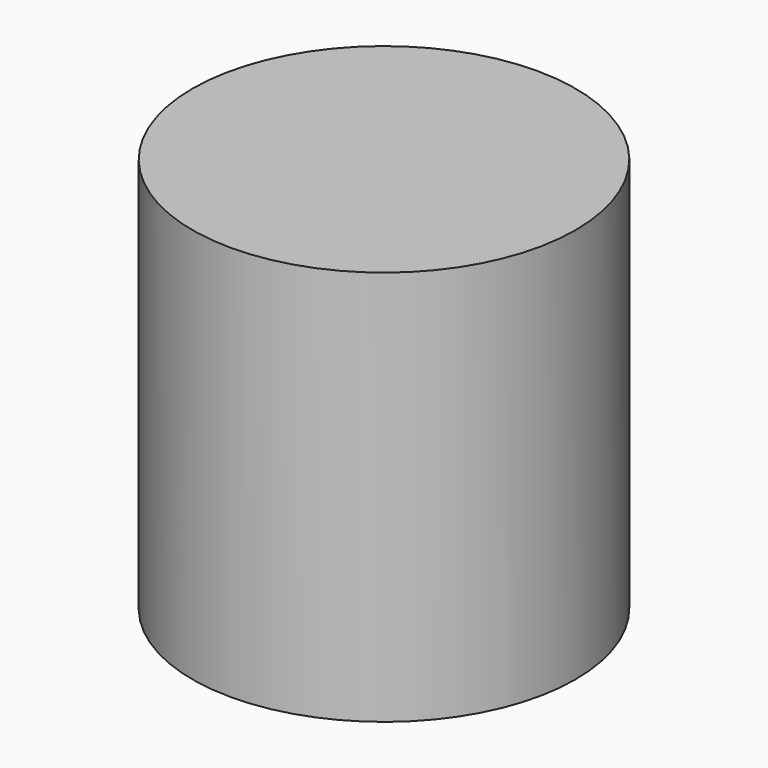
from build123d import *

# Parameters (mm, degrees)
CYLINDER_R     = 7.2644
CYLINDER_DEPTH = 15


with BuildPart() as part:
    # Cylinder → Cylinder (new body)
    with BuildSketch(Plane.XY.offset(-2.5)):
        Circle(CYLINDER_R)
    extrude(amount=CYLINDER_DEPTH)


solid = part.part
